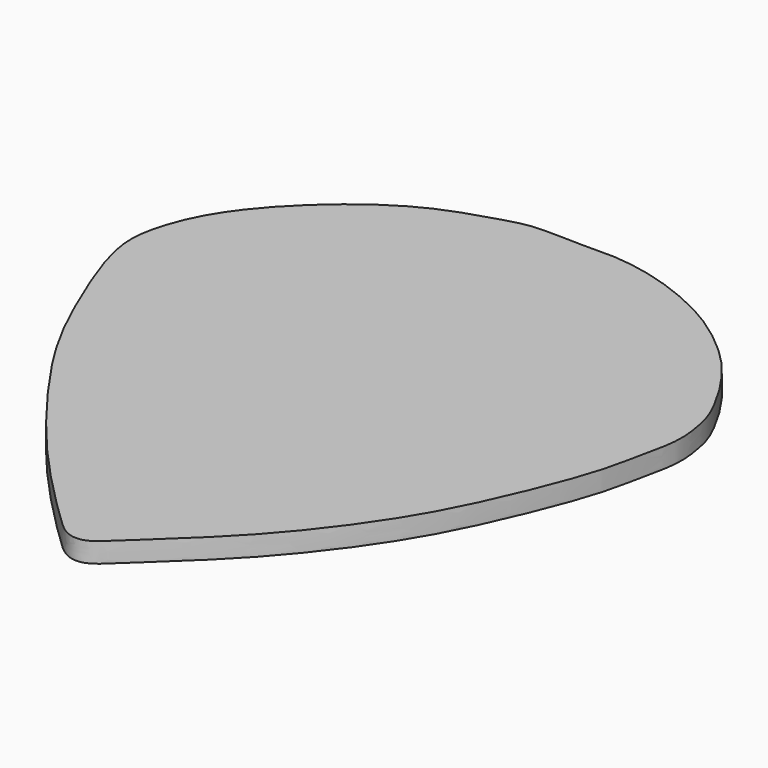
from build123d import *

# Parameters (mm, degrees)
F1_DEPTH = 0.89916


with BuildPart() as f1:
    # F0 (on Top) → F1 (new body)
    with BuildSketch(Plane.XY):
        with BuildLine():
            add(Edge.make_bspline(
                [(0, 16.7876744042), (0.0853514626, 16.7876744042), (0.1707029252, 16.7876744042), (0.2560543878, 16.7876744042)],
                knots=[0, 0, 0, 0, 0.2560543878, 0.2560543878, 0.2560543878, 0.2560543878], degree=3))
            add(Edge.make_bspline(
                [(0, 16.7876744042), (0.0882261433, 16.786967871), (0.1733737311, 16.787078852), (0.2560543878, 16.7876744042)],
                knots=[0, 0, 0, 0, 0.0038798642, 0.0038798642, 0.0038798642, 0.0038798642], degree=3))
        make_face()
        with BuildLine():
            add(Edge.make_bspline(
                [(0, 16.7876744042), (0.0882261433, 16.786967871), (0.1733737311, 16.787078852), (0.2560543878, 16.7876744042)],
                knots=[0, 0, 0, 0, 0.0038798642, 0.0038798642, 0.0038798642, 0.0038798642], degree=3))
            add(Edge.make_bspline(
                [(1.4685075097, 16.7876744042), (1.940105078, 16.7634519099), (2.9751847993, 16.6048323827), (4.5513988019, 16.1550618041), (6.8513685617, 15.1354478876), (9.156041853, 13.3084492456), (10.5781283913, 11.4913207781), (11.5875437254, 9.6139980303), (11.8212205307, 8.7212118052), (12.0578705863, 7.2961838629), (11.6432729468, 5.6020200674), (11.3044413398, 3.6742231172), (9.9402900287, 0.1827334377), (8.2075254197, -3.4487153906), (4.9086353053, -7.7821621552), (1.8236161829, -10.5307806297), (0.6619595919, -11.7263655405), (-0.0004041577, -11.8270457402), (-0.5624210942, -11.6502325058), (-1.5028675492, -10.7720766078), (-4.3998641375, -7.880337463), (-7.0319599386, -4.6535199183), (-9.4970361768, -1.1261101323), (-10.8675282058, 1.6042715812), (-12.2501584466, 4.9629727725), (-12.7396281176, 6.9194934558), (-12.5536943421, 8.3977392243), (-11.799267899, 10.4763253049), (-9.657466866, 13.1225888625), (-6.3629072882, 15.6519182421), (-3.5625477641, 16.4470770846), (-2.2543240478, 16.8919729545), (-0.6870334834, 16.7931763105), (0, 16.7876744042)],
                knots=[0.0247002129, 0.0247002129, 0.0247002129, 0.0247002129, 0.0494876336, 0.075519065, 0.107808434, 0.1427616978, 0.1742628345, 0.2033318902, 0.2228668264, 0.2467340626, 0.2733785127, 0.3018876859, 0.3407907813, 0.3823022024, 0.4302569632, 0.4719924466, 0.4970826862, 0.5124681887, 0.5270552065, 0.549305636, 0.5902980958, 0.6332188528, 0.674934828, 0.7111156784, 0.7497859073, 0.7783777001, 0.8024433947, 0.8320650402, 0.8698048349, 0.911791793, 0.9458029819, 0.9697867714, 1, 1, 1, 1], degree=3))
            add(Edge.make_bspline(
                [(0.2560543878, 16.7876744042), (0.6602054284, 16.7876744042), (1.0643564691, 16.7876744042), (1.4685075097, 16.7876744042)],
                knots=[0.2560543878, 0.2560543878, 0.2560543878, 0.2560543878, 1.4685075097, 1.4685075097, 1.4685075097, 1.4685075097], degree=3))
        make_face()
        with BuildLine():
            add(Edge.make_bspline(
                [(0.2560543878, 16.7876744042), (0.699740043, 16.7908702908), (1.0723861896, 16.8080202395), (1.4685075097, 16.7876744042)],
                knots=[0.0038798642, 0.0038798642, 0.0038798642, 0.0038798642, 0.0247002129, 0.0247002129, 0.0247002129, 0.0247002129], degree=3))
            add(Edge.make_bspline(
                [(0.2560543878, 16.7876744042), (0.6602054284, 16.7876744042), (1.0643564691, 16.7876744042), (1.4685075097, 16.7876744042)],
                knots=[0.2560543878, 0.2560543878, 0.2560543878, 0.2560543878, 1.4685075097, 1.4685075097, 1.4685075097, 1.4685075097], degree=3))
        make_face()
    extrude(amount=F1_DEPTH)


solid = f1.part
